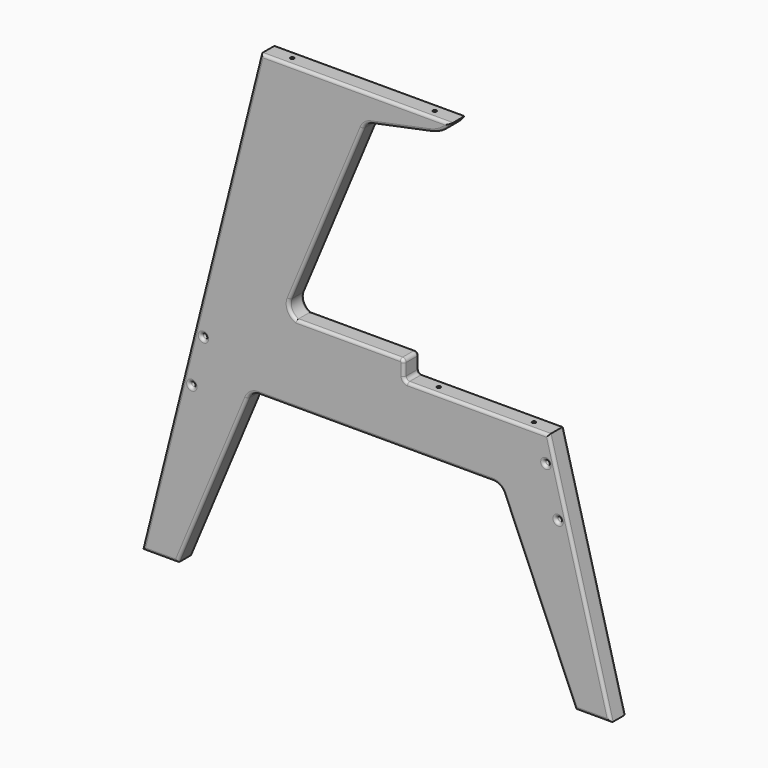
from build123d import *

# Parameters (mm, degrees)
F0_R     = 2.54
F1_DEPTH = 10.16
F2_R     = 3.048
F4_D     = 3.81
F4_DEPTH = 12.7
F4_TIP   = 1.1446394792
F5_D     = 3.81
F5_DEPTH = 12.7
F5_TIP   = 1.1446394792
F7_D     = 3.81
F7_DEPTH = 12.7
F7_TIP   = 1.1446394792
F8_D     = 3.81
F8_DEPTH = 12.7
F8_TIP   = 1.1446394792


with BuildPart() as f1:
    # F0 (on Front) → F1 (new body, symmetric)
    with BuildSketch(Plane.XZ):
        with BuildLine():
            Line((-196.3925526364, 213.6723054396), (-323.3925526364, -294.3276945604))
            Line((-323.3925526364, -294.3276945604), (-285.2925526364, -294.3276945604))
            Line((-285.2925526364, -294.3276945604), (-210.5331877458, -115.7378037345))
            ThreePointArc((-210.5331877458, -115.7378037345), (-205.8541571501, -110.0689413417), (-198.8182060253, -107.9418024384))
            Line((-198.8182060253, -107.9418024384), (51.4737945071, -107.9418024384))
            ThreePointArc((51.4737945071, -107.9418024384), (58.4656096262, -110.0397025831), (63.1474830208, -115.6403030146))
            Line((63.1474830208, -115.6403030146), (139.7046812711, -294.3276945604))
            Line((139.7046812711, -294.3276945604), (177.8046812711, -294.3276945604))
            Line((177.8046812711, -294.3276945604), (111.460397134, -44.7608994913))
            Line((111.460397134, -44.7608994913), (-39.5313684368, -44.7608994913))
            ThreePointArc((-39.5313684368, -44.7608994913), (-42.2254452731, -43.6449763276), (-43.3413684368, -40.9508994913))
            Line((-43.3413684368, -40.9508994913), (-43.3413684368, -28.2508994913))
            ThreePointArc((-43.3413684368, -28.2508994913), (-44.4572916005, -25.556822655), (-47.1513684368, -24.4408994913))
            Line((-47.1513684368, -24.4408994913), (-158.2608304308, -24.4408994913))
            ThreePointArc((-158.2608304308, -24.4408994913), (-165.2198168334, -17.5544011005), (-165.2124524117, -7.7640335076))
            Line((-165.2124524117, -7.7640335076), (-87.2811179538, 178.4032584846))
            ThreePointArc((-87.2811179538, 178.4032584846), (-83.640327931, 183.3021893647), (-78.1345555253, 185.9368327892))
            Line((-78.1345555253, 185.9368327892), (-14.9087051641, 198.9932782637))
            ThreePointArc((-14.9087051641, 198.9932782637), (-2.5981069165, 204.1839308563), (6.8074473636, 213.6723054396))
            Line((6.8074473636, 213.6723054396), (-196.3925526364, 213.6723054396))
        make_face()
        with Locations((-270.0584104226, -122.0438866487)):
            Circle(F0_R, mode=Mode.SUBTRACT)
        with Locations((-257.6101420156, -72.7926875398)):
            Circle(F0_R, mode=Mode.SUBTRACT)
        with Locations((121.4334767302, -121.793304007)):
            Circle(F0_R, mode=Mode.SUBTRACT)
        with Locations((108.3822101371, -72.6984525426)):
            Circle(F0_R, mode=Mode.SUBTRACT)
    extrude(amount=F1_DEPTH, both=True)

    # F2
    f2_edges = [f1.edges().sort_by_distance(p)[0] for p in [
        (-83.640328, -10.16, 183.302189),
        (-46.52163, -10.16, 192.465056),
        (-2.598107, -10.16, 204.183931),
        (-94.792553, -10.16, 213.672305),
        (-259.892553, -10.16, -40.327695),
        (-304.342553, -10.16, -294.327695),
        (-247.91287, -10.16, -205.032749),
        (-205.854157, -10.16, -110.068941),
        (-73.672206, -10.16, -107.941802),
        (58.46561, -10.16, -110.039703),
        (101.426082, -10.16, -204.983999),
        (158.754681, -10.16, -294.327695),
        (144.632539, -10.16, -169.544297),
        (35.964514, -10.16, -44.760899),
        (-42.225445, -10.16, -43.644976),
        (-43.341368, -10.16, -34.600899),
        (-44.457292, -10.16, -25.556823),
        (-102.706099, -10.16, -24.440899),
        (-165.219817, -10.16, -17.554401),
        (-126.246785, -10.16, 85.319612),
        (-272.59841, -10.16, -122.043887),
        (-260.150142, -10.16, -72.792688),
        (118.893477, -10.16, -121.793304),
        (105.84221, -10.16, -72.698453),
        (-83.640328, 10.16, 183.302189),
        (-46.52163, 10.16, 192.465056),
        (-2.598107, 10.16, 204.183931),
        (-94.792553, 10.16, 213.672305),
        (-259.892553, 10.16, -40.327695),
        (-304.342553, 10.16, -294.327695),
        (-247.91287, 10.16, -205.032749),
        (-205.854157, 10.16, -110.068941),
        (-73.672206, 10.16, -107.941802),
        (58.46561, 10.16, -110.039703),
        (101.426082, 10.16, -204.983999),
        (158.754681, 10.16, -294.327695),
        (144.632539, 10.16, -169.544297),
        (35.964514, 10.16, -44.760899),
        (-42.225445, 10.16, -43.644976),
        (-43.341368, 10.16, -34.600899),
        (-44.457292, 10.16, -25.556823),
        (-102.706099, 10.16, -24.440899),
        (-165.219817, 10.16, -17.554401),
        (-126.246785, 10.16, 85.319612),
        (-272.59841, 10.16, -122.043887),
        (-260.150142, 10.16, -72.792688),
        (118.893477, 10.16, -121.793304),
        (105.84221, 10.16, -72.698453),
    ]]
    fillet(f2_edges, radius=F2_R)

    # F4
    with Locations(Plane.XY.offset(213.6723054396)):
        with Locations((-170.8917021751, 0)):
            Hole(F4_D / 2, depth=F4_DEPTH)
            with Locations((0, 0, -(F4_DEPTH + F4_TIP / 2))):  # 118° drill point
                Cone(0, F4_D / 2, F4_TIP, mode=Mode.SUBTRACT)

    # F5
    with Locations(Plane.XY.offset(213.6723054396)):
        with Locations((-18.4917021751, 0)):
            Hole(F5_D / 2, depth=F5_DEPTH)
            with Locations((0, 0, -(F5_DEPTH + F5_TIP / 2))):  # 118° drill point
                Cone(0, F5_D / 2, F5_TIP, mode=Mode.SUBTRACT)

    # F7 (one way)
    with BuildSketch(Plane.XY.offset(-44.7608994913)):
        with Locations((-14.1313684368, 0)):
            Circle(F7_D / 2)
    extrude(amount=-F7_DEPTH, mode=Mode.SUBTRACT)
    with Locations(Plane.XY.offset(-44.7608994913)):
        with Locations((-14.1313684368, 0)):
            with Locations((0, 0, -(F7_DEPTH + F7_TIP / 2))):  # 118° drill point
                Cone(0, F7_D / 2, F7_TIP, mode=Mode.SUBTRACT)

    # F8
    with Locations(Plane.XY.offset(-44.7608994913)):
        with Locations((87.4686315632, 0)):
            Hole(F8_D / 2, depth=F8_DEPTH)
            with Locations((0, 0, -(F8_DEPTH + F8_TIP / 2))):  # 118° drill point
                Cone(0, F8_D / 2, F8_TIP, mode=Mode.SUBTRACT)


solid = f1.part
